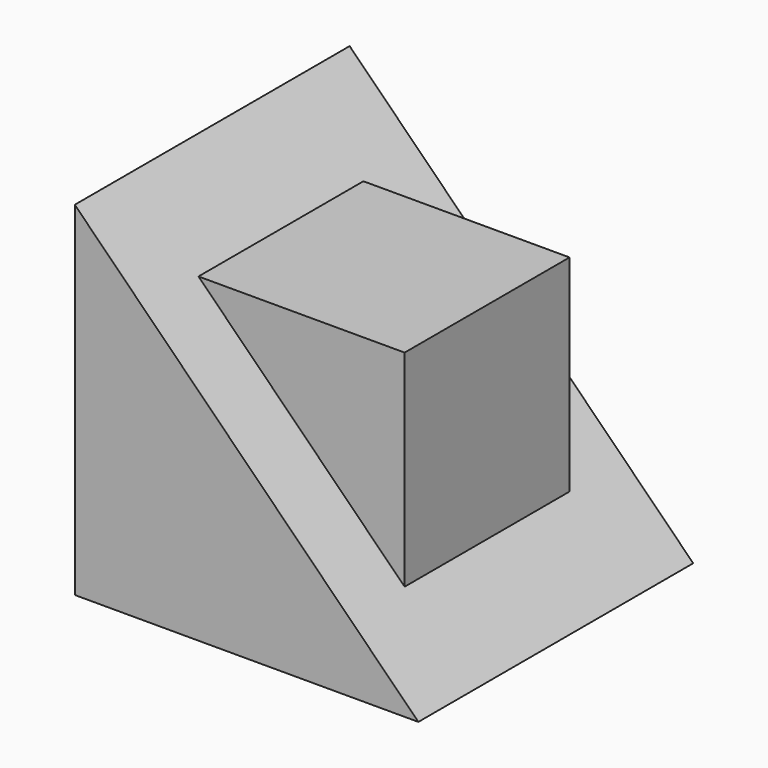
from build123d import *

# Parameters (mm, degrees)
PAD_DEPTH    = 25
SKETCH001_W  = 30
SKETCH001_H  = 30
PAD001_DEPTH = 15


with BuildPart() as part:
    # Sketch → Pad (new body, symmetric)
    with BuildSketch(Plane.XZ):
        Polygon((-25, 25), (-25, -25), (25, -25), align=None)
    extrude(amount=PAD_DEPTH, both=True)

    # Sketch001 → Pad001 (join, symmetric)
    with BuildSketch(Plane.XZ):
        Rectangle(SKETCH001_W, SKETCH001_H)
    extrude(amount=PAD001_DEPTH, both=True)


solid = part.part
